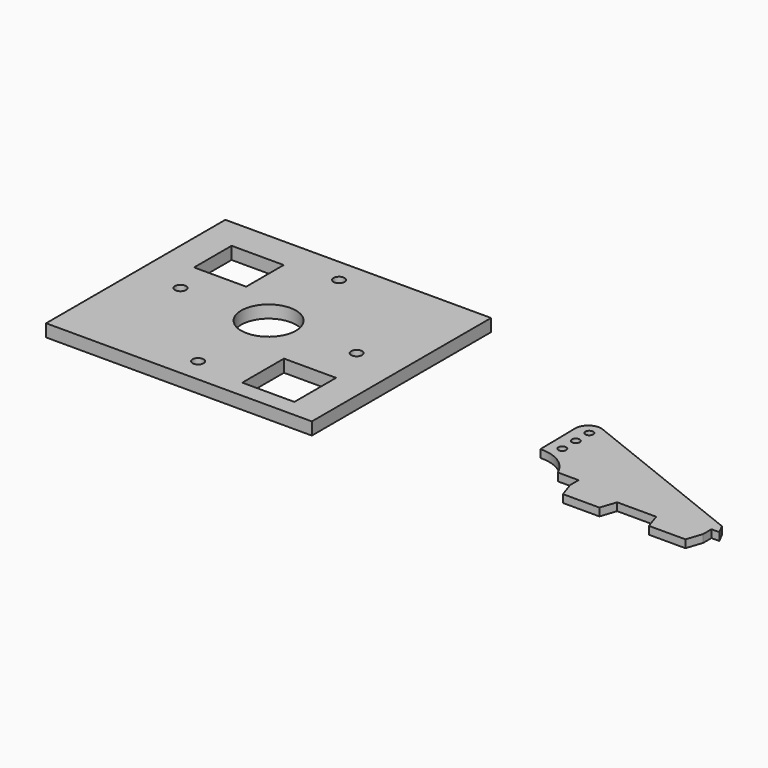
from build123d import *

# Parameters (mm, degrees)
F1_R     = 0.75
F2_DEPTH = 1.5
F0_W     = 51
F0_H     = 43
F0_R     = 1.05
F0_W_2   = 10
F0_H_2   = 10
F0_R_2   = 5.25
F0_H_3   = 9
F3_DEPTH = 2.4


with BuildPart() as f2:
    # F1 (on Top) → F2 (new body)
    with BuildSketch(Plane.XY):
        with BuildLine():
            Line((56.47917, 29.458335), (55.577826, 31.21537))
            Line((55.577826, 31.21537), (21.999335, 44.583161))
            ThreePointArc((21.999335, 44.583161), (19.653617, 44.317312), (18.575023, 42.217383))
            Line((18.575023, 42.217383), (18.721106, 33.739522))
            ThreePointArc((18.721106, 33.739522), (22.773586, 32.661999), (25.47917, 29.458335))
            Line((25.47917, 29.458335), (29.47917, 29.458335))
            Line((29.47917, 29.458335), (29.47917, 27.458335))
            Line((29.47917, 27.458335), (30.47917, 24.458335))
            Line((30.47917, 24.458335), (37.47917, 24.458335))
            Line((37.47917, 24.458335), (38.47917, 27.458335))
            Line((38.47917, 27.458335), (45.97917, 27.458335))
            Line((45.97917, 27.458335), (46.97917, 24.458335))
            Line((46.97917, 24.458335), (53.97917, 24.458335))
            Line((53.97917, 24.458335), (54.97917, 27.458335))
            Line((54.97917, 27.458335), (54.97917, 29.458335))
            Line((54.97917, 29.458335), (56.47917, 29.458335))
        make_face()
        with Locations((21.18337, 35.908001)):
            Circle(F1_R, mode=Mode.SUBTRACT)
        with Locations((21.18337, 39.158001)):
            Circle(F1_R, mode=Mode.SUBTRACT)
        with Locations((21.18337, 42.408001)):
            Circle(F1_R, mode=Mode.SUBTRACT)
    extrude(amount=F2_DEPTH)


with BuildPart() as f3:
    # F0 (on Top) → F3 (new body)
    with BuildSketch(Plane.XY):
        with Locations((-38.067278, 39.520836)):
            Rectangle(F0_W, F0_H)
        with Locations((-54.967278, 39.520836)):
            Circle(F0_R, mode=Mode.SUBTRACT)
        with Locations((-38.067278, 22.620836)):
            Circle(F0_R, mode=Mode.SUBTRACT)
        with Locations((-23.567278, 26.33326)):
            Rectangle(F0_W_2, F0_H_2, mode=Mode.SUBTRACT)
        with Locations((-38.067278, 39.520836)):
            Circle(F0_R_2, mode=Mode.SUBTRACT)
        with Locations((-21.167278, 39.520836)):
            Circle(F0_R, mode=Mode.SUBTRACT)
        with Locations((-52.567278, 50.520836)):
            Rectangle(F0_W_2, F0_H_3, mode=Mode.SUBTRACT)
        with Locations((-38.067278, 56.420836)):
            Circle(F0_R, mode=Mode.SUBTRACT)
    extrude(amount=F3_DEPTH)


solid = Compound([f2.part, f3.part])
